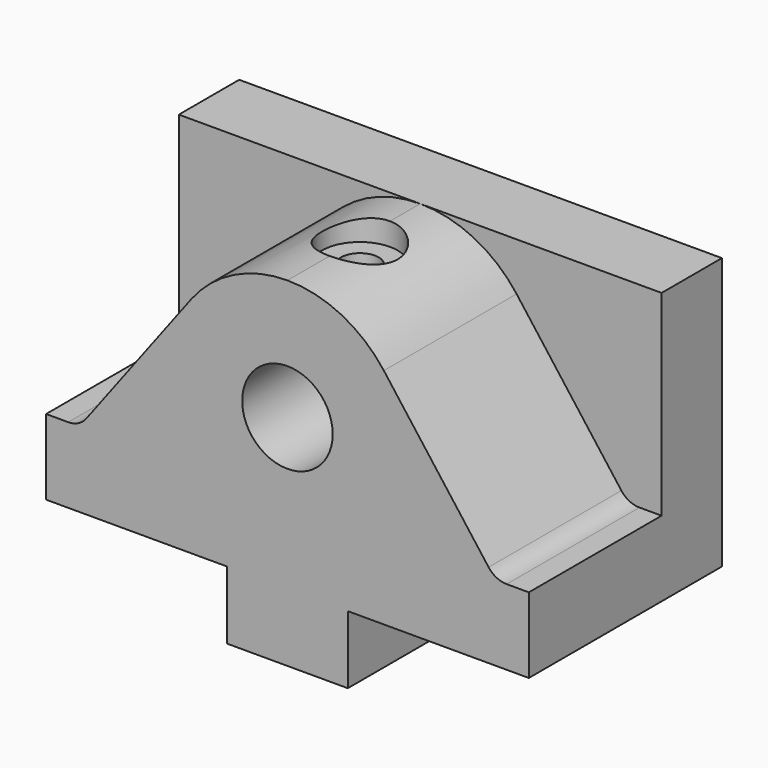
from build123d import *

# Parameters (mm, degrees)
F0_R           = 6
F1_DEPTH       = 22
F2_DEPTH       = 10
F3_R           = 3
F5_D           = 5
F5_DEPTH       = 16
F5_CBORE_D     = 10
F5_CBORE_DEPTH = 3
F5_TIP         = 1.5021515476
F7_DEPTH       = 2
F8_D           = 6
F8_DEPTH       = 16
F8_TIP         = 1.8025818571


with BuildPart() as f1:
    # F0 (on Front) → F1 (new body)
    with BuildSketch(Plane.XZ):
        with BuildLine():
            ThreePointArc((12.7781681608, 11.6290403704), (7.1391649946, 16.3189497932), (-3.39e-08, 18))
            ThreePointArc((-3.39e-08, 18), (-7.1391650249, 16.3189497781), (-12.7781681608, 11.6290403704))
            Line((-12.7781681608, 11.6290403704), (-27.5697110315, -8))
            Line((-27.5697110315, -8), (-32, -8))
            Line((-32, -8), (-32, -18))
            Line((-32, -18), (-8, -18))
            Line((-8, -18), (-8, -27))
            Line((-8, -27), (8, -27))
            Line((8, -27), (8, -18))
            Line((8, -18), (32, -18))
            Line((32, -18), (32, -8))
            Line((32, -8), (27.5697110315, -8))
            Line((27.5697110315, -8), (12.7781681608, 11.6290403704))
        make_face()
        with Locations((0, 2)):
            Circle(F0_R, mode=Mode.SUBTRACT)
    extrude(amount=F1_DEPTH)

    # F0 (on Front) → F2 (join)
    with BuildSketch(Plane.XZ):
        with BuildLine():
            Line((32, -8), (32, 18))
            Line((32, 18), (-3.39e-08, 18))
            ThreePointArc((-3.39e-08, 18), (7.1391649946, 16.3189497932), (12.7781681608, 11.6290403704))
            Line((12.7781681608, 11.6290403704), (27.5697110315, -8))
            Line((27.5697110315, -8), (32, -8))
        make_face()
        with BuildLine():
            ThreePointArc((-12.7781681608, 11.6290403704), (-7.1391650249, 16.3189497781), (-3.39e-08, 18))
            Line((-3.39e-08, 18), (-32, 18))
            Line((-32, 18), (-32, -8))
            Line((-32, -8), (-27.5697110315, -8))
            Line((-27.5697110315, -8), (-12.7781681608, 11.6290403704))
        make_face()
        with BuildLine():
            ThreePointArc((12.7781681608, 11.6290403704), (7.1391649946, 16.3189497932), (-3.39e-08, 18))
            ThreePointArc((-3.39e-08, 18), (-7.1391650249, 16.3189497781), (-12.7781681608, 11.6290403704))
            Line((-12.7781681608, 11.6290403704), (-27.5697110315, -8))
            Line((-27.5697110315, -8), (-32, -8))
            Line((-32, -8), (-32, -18))
            Line((-32, -18), (-8, -18))
            Line((-8, -18), (-8, -27))
            Line((-8, -27), (8, -27))
            Line((8, -27), (8, -18))
            Line((8, -18), (32, -18))
            Line((32, -18), (32, -8))
            Line((32, -8), (27.5697110315, -8))
            Line((27.5697110315, -8), (12.7781681608, 11.6290403704))
        make_face()
        with Locations((0, 2)):
            Circle(F0_R, mode=Mode.SUBTRACT)
        with Locations((0, 2)):
            Circle(F0_R)
    extrude(amount=-F2_DEPTH)

    # F3
    f3_edges = [f1.edges().sort_by_distance(p)[0] for p in [
        (-27.569711, -11, -8),
        (27.569711, -11, -8),
    ]]
    fillet(f3_edges, radius=F3_R)

    # F5
    with Locations(Plane.XY.offset(18)):
        with Locations((0, -10)):
            CounterBoreHole(F5_D / 2, F5_CBORE_D / 2, F5_CBORE_DEPTH, depth=F5_DEPTH)
            with Locations((0, 0, -(F5_DEPTH + F5_TIP / 2))):  # 118° drill point
                Cone(0, F5_D / 2, F5_TIP, mode=Mode.SUBTRACT)

    # F0 (on Front) → F7 (cut)
    with BuildSketch(Plane.XZ):
        with Locations((0, 2)):
            Circle(F0_R)
    extrude(amount=-F7_DEPTH, mode=Mode.SUBTRACT)

    # F8
    with Locations(Plane(origin=(0, 0, -27), x_dir=(1, 0, 0), z_dir=(0, 0, -1))):
        with Locations((0, -2), (0, 14)):
            Hole(F8_D / 2, depth=F8_DEPTH)
            with Locations((0, 0, -(F8_DEPTH + F8_TIP / 2))):  # 118° drill point
                Cone(0, F8_D / 2, F8_TIP, mode=Mode.SUBTRACT)


solid = f1.part
